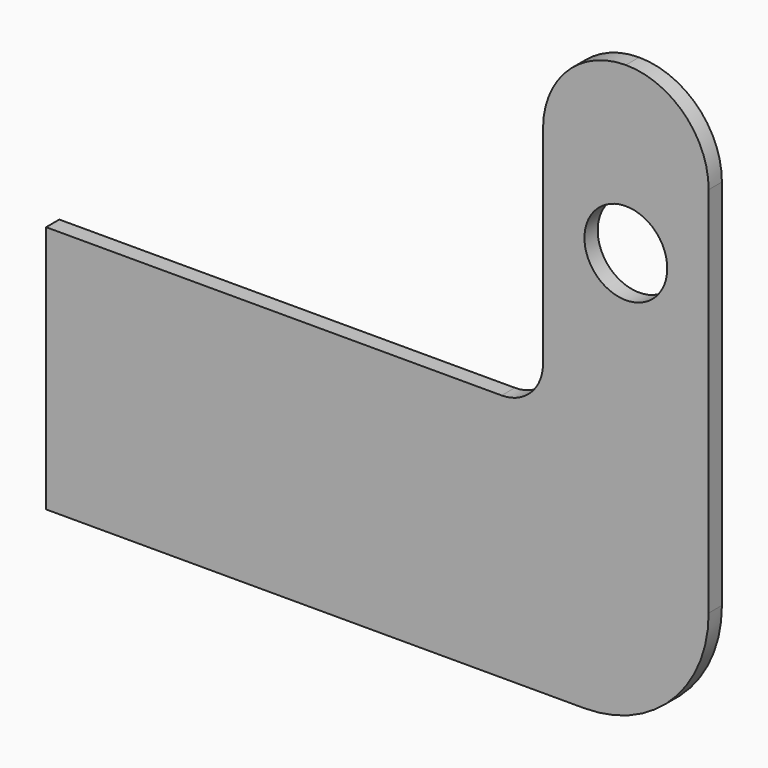
from build123d import *

# Parameters (mm, degrees)
F0_R     = 5
F1_DEPTH = 2


with BuildPart() as f1:
    # F0 (on Front) → F1 (new body)
    with BuildSketch(Plane.XZ):
        with BuildLine():
            Line((0, 30), (0, 0))
            Line((0, 0), (65, 0))
            ThreePointArc((65, 0), (75.606602, 4.393398), (80, 15))
            Line((80, 15), (80, 60))
            ThreePointArc((80, 60), (77.071068, 67.071068), (70, 70))
            ThreePointArc((70, 70), (62.928932, 67.071068), (60, 60))
            Line((60, 60), (60, 35))
            ThreePointArc((60, 35), (58.535534, 31.464466), (55, 30))
            Line((55, 30), (0, 30))
        make_face()
        with Locations((70, 50)):
            Circle(F0_R, mode=Mode.SUBTRACT)
    extrude(amount=F1_DEPTH)


solid = f1.part
